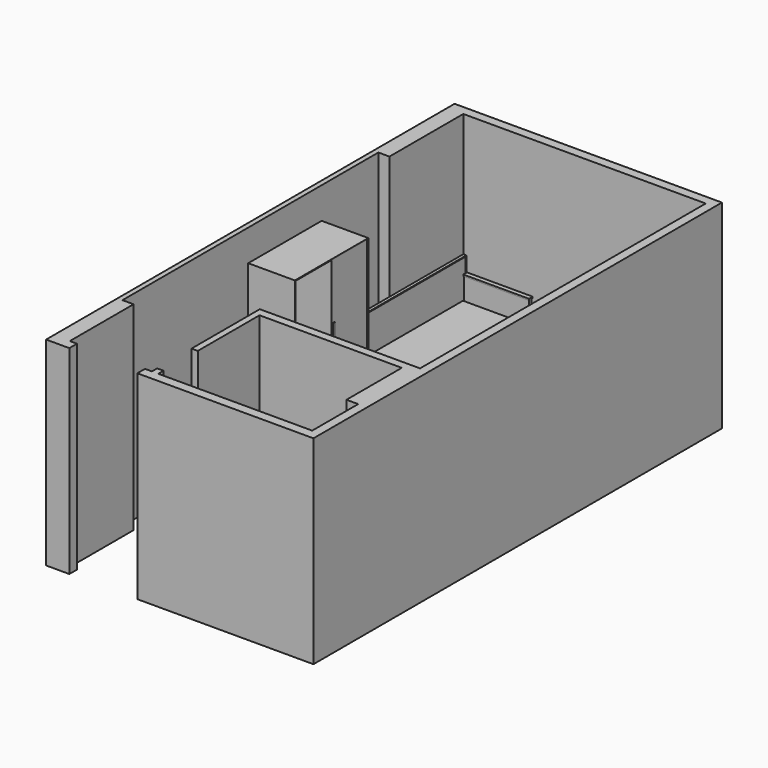
from build123d import *

# Parameters (mm, degrees)
F1_DEPTH  = 2600
F2_W      = 1200
F2_H      = 581
F3_DEPTH  = 900
F4_W      = 589
F4_H      = 600
F5_DEPTH  = 1200
F6_W      = 1680
F6_H      = 2110
F7_DEPTH  = 800
F8_W      = 610
F8_H      = 1200
F9_DEPTH  = 2200
F10_W     = 500
F10_H     = 1200
F11_DEPTH = 800
F12_W     = 510
F12_H     = 430
F13_DEPTH = 200
F14_W     = 150
F14_H     = 380
F15_DEPTH = 740
F17_DEPTH = 1800
F18_W     = 1180
F18_H     = 30
F19_DEPTH = 20
F20_W     = 585
F20_H     = 250
F21_DEPTH = 10
F22_W     = 585
F22_H     = 250
F23_DEPTH = 10
F24_W     = 100
F24_H     = 9
F25_DEPTH = 10
F26_W     = 585
F26_H     = 1640
F27_DEPTH = 10
F28_W     = 585
F28_H     = 1640
F29_DEPTH = 590
F30_W     = 25
F30_H     = 160
F31_DEPTH = 10
F32_R     = 7.5
F33_DEPTH = 585
F34_W     = 585
F34_H     = 10
F35_DEPTH = 585
F36_W     = 850
F36_H     = 2030
F37_DEPTH = 420
F39_DEPTH = 420
F40_W     = 300
F40_H     = 75
F41_DEPTH = 30
F43_DEPTH = 120
F42_W     = 800
F42_H     = 2000
F46_DEPTH = 200
F44_W     = 550
F44_H     = 250
F47_DEPTH = 20
F48_R     = 15
F49_DEPTH = 10
F50_W     = 860
F50_H     = 60
F51_DEPTH = 20
F53_DEPTH = 5


with BuildPart() as f1:
    # F0 (on Top) → F1 (new body)
    with BuildSketch(Plane.XY):
        Polygon((-2302, 0), (0, 0), (0, 1780), (-269, 1780), (-269, 876), (-116, 876), (-116, 125), (-2129, 125), (-2129, 211), (-2211, 211), (-2211, 125), (-2302, 125), align=None)
        Polygon((-116, 1887), (0, 1887), (0, 6675), (-3495, 6675), (-3495, 0), (-3191, 0), (-3191, 125), (-3285, 125), (-3285, 1167), (-3430, 1167), (-3430, 5348), (-3285, 5348), (-3285, 6555), (-116, 6555), align=None)
        Polygon((-269, 1780), (0, 1780), (0, 1887), (-116, 1887), (-2211, 1887), (-2211, 771.4661359787), (-2129, 771.4661359787), (-2129, 1780), align=None)
    extrude(amount=F1_DEPTH)


with BuildPart() as f3:
    # F2 (on face) → F3 (new body)
    with BuildSketch(Plane(origin=(0, 0, 0), x_dir=(1, 0, 0), z_dir=(0, 0, -1))):
        with Locations((-1611, -2177.5)):
            Rectangle(F2_W, F2_H)
        Polygon((-116, -2770), (-116, -1887), (-1011, -1887), (-1011, -2468), (-705, -2770), align=None)
    extrude(amount=-F3_DEPTH)


with BuildPart() as f5:
    # F4 (on face) → F5 (new body)
    with BuildSketch(Plane(origin=(0, 0, 0), x_dir=(1, 0, 0), z_dir=(0, 0, -1))):
        with Locations((-410.5, -3070)):
            Rectangle(F4_W, F4_H)
    extrude(amount=-F5_DEPTH)


with BuildPart() as f7:
    # F6 (on face) → F7 (new body)
    with BuildSketch(Plane(origin=(0, 0, 0), x_dir=(1, 0, 0), z_dir=(0, 0, -1))):
        with Locations((-2428.1640052795, -5478.7003082561)):
            Rectangle(F6_W, F6_H)
    extrude(amount=-F7_DEPTH)

    # F36 (on face) → F37 (cut)
    with BuildSketch(Plane.XY.offset(800)):
        with Locations((-2803.1640052795, 5478.7003082561)):
            Rectangle(F36_W, F36_H)
    extrude(amount=-F37_DEPTH, mode=Mode.SUBTRACT)

    # F38 (on face) → F39 (cut)
    with BuildSketch(Plane.XY.offset(800)):
        Polygon((-2378.1640052795, 4423.7003082561), (-1588.1640052795, 4423.7003082561), (-1588.1640052795, 6533.7003082561), (-2378.1640052795, 6533.7003082561), (-2378.1640052795, 6493.7003082561), (-2378.1640052795, 4463.7003082561), align=None)
    extrude(amount=-F39_DEPTH, mode=Mode.SUBTRACT)

    # F40 (on face) → F41 (join)
    with BuildSketch(Plane.YZ.offset(-1588.1640052795)):
        with Locations((4573.7003082561, 417.5)):
            Rectangle(F40_W, F40_H)
        with BuildLine():
            Line((4723.7003082561, 455), (4723.7003082561, 380))
            Line((4723.7003082561, 380), (4897.9043960571, 380))
            add(Edge.make_bspline(
                [(4723.7003082561, 455), (4733.011616892, 454.9604162061), (4758.9064379652, 454.85033337), (4839.3243346703, 385.3156971662), (4880.2814408738, 381.5991497911), (4897.9043960571, 380)],
                knots=[0, 0, 0, 0, 0.2423595319, 0.6740037261, 1, 1, 1, 1], degree=3))
        make_face()
        with BuildLine():
            add(Edge.make_bspline(
                [(6233.7003082561, 455), (6224.3889996202, 454.9604162061), (6198.494178547, 454.85033337), (6118.0762818418, 385.3156971662), (6077.1191756384, 381.5991497911), (6059.496220455, 380)],
                knots=[0, 0, 0, 0, 0.2423595319, 0.6740037261, 1, 1, 1, 1], degree=3))
            Line((6059.496220455, 380), (6233.7003082561, 380))
            Line((6233.7003082561, 380), (6233.7003082561, 455))
        make_face()
        with Locations((6383.7003082561, 417.5)):
            Rectangle(F40_W, F40_H)
    extrude(amount=-F41_DEPTH)

    # F45 (on face) → F46 (join)
    with BuildSketch(Plane.XY.offset(800)):
        Polygon((-3228.1640052795, 6533.7003082561), (-3268.1640052795, 6533.7003082561), (-3268.1640052795, 4423.7003082561), (-3228.1640052795, 4423.7003082561), (-3228.1640052795, 4463.7003082561), (-3228.1640052795, 6493.7003082561), align=None)
    extrude(amount=F46_DEPTH)

    # F50 (on face) → F51 (join)
    with BuildSketch(Plane.XY.offset(800)):
        Polygon((-3228.1640052795, 4473.7003082561), (-3228.1640052795, 4463.7003082561), (-2378.1640052795, 4463.7003082561), (-2378.1640052795, 4423.7003082561), (-3228.1640052795, 4423.7003082561), (-3228.1640052795, 4413.7003082561), (-2368.1640052795, 4413.7003082561), (-2368.1640052795, 4473.7003082561), align=None)
        with Locations((-2798.1640052795, 6513.7003082561)):
            Rectangle(F50_W, F50_H)
    extrude(amount=-F51_DEPTH)

    # F52 (on face) → F53 (cut)
    with BuildSketch(Plane.YZ.offset(-3228.1640052795)):
        Polygon((6528.7003082561, 995), (4433.7003082561, 995), (4433.7003082561, 800), (4438.7003082561, 800), (4438.7003082561, 990), (6523.7003082561, 990), (6523.7003082561, 800), (6528.7003082561, 800), align=None)
    extrude(amount=-F53_DEPTH, mode=Mode.SUBTRACT)


with BuildPart() as f9:
    # F8 (on face) → F9 (new body)
    with BuildSketch(Plane(origin=(0, 0, 0), x_dir=(1, 0, 0), z_dir=(0, 0, -1))):
        with Locations((-3113.1640052795, -3806.8403268422)):
            Rectangle(F8_W, F8_H)
    extrude(amount=-F9_DEPTH)

    # F18 (on face) → F19 (cut)
    with BuildSketch(Plane.YZ.offset(-2808.1640052795)):
        with Locations((3806.8403268422, 15)):
            Rectangle(F18_W, F18_H)
    extrude(amount=-F19_DEPTH, mode=Mode.SUBTRACT)

    # F20 (on face) → F21 (cut)
    with BuildSketch(Plane.YZ.offset(-2808.1640052795)):
        with Locations((3509.3403268422, 155)):
            Rectangle(F20_W, F20_H)
        with Locations((4104.3403268422, 155)):
            Rectangle(F20_W, F20_H)
    extrude(amount=-F21_DEPTH, mode=Mode.SUBTRACT)

    # F22 (on face) → F23 (cut)
    with BuildSketch(Plane.YZ.offset(-2808.1640052795)):
        with Locations((3509.3403268422, 415)):
            Rectangle(F22_W, F22_H)
        with Locations((4104.3403268422, 415)):
            Rectangle(F22_W, F22_H)
    extrude(amount=-F23_DEPTH, mode=Mode.SUBTRACT)

    # F26 (on face) → F27 (cut)
    with BuildSketch(Plane.YZ.offset(-2808.1640052795)):
        with Locations((3509.3403268422, 1370)):
            Rectangle(F26_W, F26_H)
        with Locations((4104.3403268422, 1370)):
            Rectangle(F26_W, F26_H)
    extrude(amount=-F27_DEPTH, mode=Mode.SUBTRACT)

    # F28 (on face) → F29 (cut)
    with BuildSketch(Plane.YZ.offset(-2818.1640052795)):
        with Locations((3509.3403268422, 1370)):
            Rectangle(F28_W, F28_H)
    extrude(amount=-F29_DEPTH, mode=Mode.SUBTRACT)


with BuildPart() as f11:
    # F10 (on face) → F11 (new body)
    with BuildSketch(Plane(origin=(0, 0, 0), x_dir=(1, 0, 0), z_dir=(0, 0, -1))):
        with Locations((-1961, -3068)):
            Rectangle(F10_W, F10_H)
    extrude(amount=-F11_DEPTH)


with BuildPart() as f13:
    # F12 (on face) → F13 (new body)
    with BuildSketch(Plane(origin=(0, 0, 0), x_dir=(1, 0, 0), z_dir=(0, 0, -1))):
        with Locations((-1806, -1553.1709725806)):
            Rectangle(F12_W, F12_H)
    extrude(amount=-F13_DEPTH)


with BuildPart() as f15:
    # F14 (on face) → F15 (new body)
    with BuildSketch(Plane(origin=(0, 0, 0), x_dir=(1, 0, 0), z_dir=(0, 0, -1))):
        with Locations((-354, -1478.1709725806)):
            Rectangle(F14_W, F14_H)
        with BuildLine():
            Line((-529, -1668.1709725806), (-429, -1668.1709725806))
            Line((-429, -1668.1709725806), (-429, -1288.1709725806))
            Line((-429, -1288.1709725806), (-529, -1288.1709725806))
            add(Edge.make_bspline(
                [(-529, -1668.1709725806), (-664.7312338243, -1660.2238014952), (-892.3108443325, -1646.8988353154), (-1054.8120500139, -1479.4081747253), (-908.4384310376, -1317.8649447192), (-644.3841618956, -1295.0610974697), (-561.6754632316, -1290.122176444), (-529, -1288.1709725806)],
                knots=[0, 0, 0, 0, 0.2672098909, 0.4480289553, 0.6272295004, 0.8527307411, 1, 1, 1, 1], degree=3))
        make_face()
    extrude(amount=-F15_DEPTH)


with BuildPart() as f17:
    # F16 (on face) → F17 (new body)
    with BuildSketch(Plane(origin=(0, 0, 0), x_dir=(1, 0, 0), z_dir=(0, 0, -1))):
        Polygon((-269, -876), (-116, -876), (-116, -125), (-1216, -125), (-1216, -684.6680045128), (-1016, -876), align=None)
        Polygon((-1016, -826), (-1166, -684.6680045128), (-1166, -175), (-161.0000014305, -175), (-161.0000014305, -826), align=None, mode=Mode.SUBTRACT)
    extrude(amount=-F17_DEPTH)


with BuildPart() as f25:
    # F24 (on face) → F25 (new body)
    with BuildSketch(Plane.YZ.offset(-2818.1640052795)):
        with Locations((4104.3403268422, 511.0018552444)):
            Rectangle(F24_W, F24_H)
    extrude(amount=F25_DEPTH)


with BuildPart() as f25b:
    # F24 (on face) → F25, piece 2 (new body)
    with BuildSketch(Plane.YZ.offset(-2818.1640052795)):
        with Locations((4104.3403268422, 245.5)):
            Rectangle(F24_W, F24_H)
    extrude(amount=F25_DEPTH)


with BuildPart() as f25c:
    # F24 (on face) → F25, piece 3 (new body)
    with BuildSketch(Plane.YZ.offset(-2818.1640052795)):
        with Locations((3509.3403268422, 245.5)):
            Rectangle(F24_W, F24_H)
    extrude(amount=F25_DEPTH)


with BuildPart() as f25d:
    # F24 (on face) → F25, piece 4 (new body)
    with BuildSketch(Plane.YZ.offset(-2818.1640052795)):
        with Locations((3509.3403268422, 505.5)):
            Rectangle(F24_W, F24_H)
    extrude(amount=F25_DEPTH)


with BuildPart() as f31:
    # F30 (on face) → F31 (new body)
    with BuildSketch(Plane.YZ.offset(-2818.1640052795)):
        with Locations((3854.3403268422, 1370)):
            Rectangle(F30_W, F30_H)
    extrude(amount=F31_DEPTH)


with BuildPart() as f33:
    # F32 (on face) → F33 (new body)
    with BuildSketch(Plane(origin=(0, 3216.8403268422, 0), x_dir=(-1, 0, 0), z_dir=(0, 1, 0))):
        with Locations((3110.5614328384, 2140)):
            Circle(F32_R)
    extrude(amount=F33_DEPTH)


with BuildPart() as f35:
    # F34 (on face) → F35 (new body)
    with BuildSketch(Plane(origin=(0, 3216.8403268422, 0), x_dir=(-1, 0, 0), z_dir=(0, 1, 0))):
        with Locations((3115.6640052795, 855)):
            Rectangle(F34_W, F34_H)
    extrude(amount=F35_DEPTH)


with BuildPart() as f43:
    # F42 (on face) → F43 (new body)
    with BuildSketch(Plane.XY.offset(380)):
        Polygon((-2418.1640052795, 4478.7003082561), (-1618.1640052795, 4478.7003082561), (-1618.1640052795, 4897.9043960571), (-1618.1640052795, 6059.496220455), (-1618.1640052795, 6478.7003082561), (-2418.1640052795, 6478.7003082561), align=None)
    extrude(amount=F43_DEPTH)


with BuildPart() as f43b:
    # F42 (on face) → F43, piece 2 (new body)
    with BuildSketch(Plane.XY.offset(380)):
        with Locations((-2828.1640052795, 5478.7003082561)):
            Rectangle(F42_W, F42_H)
    extrude(amount=F43_DEPTH)


with BuildPart() as f47:
    # F44 (on face) → F47 (new body)
    with BuildSketch(Plane.YZ.offset(-1588.1640052795)):
        with Locations((6143.7003082561, 190)):
            Rectangle(F44_W, F44_H)
    extrude(amount=F47_DEPTH)

    # F48 (on face) → F49, piece 3 (join)
    with BuildSketch(Plane.YZ.offset(-1568.1640052795)):
        with Locations((6143.7003082561, 190)):
            Circle(F48_R)
    extrude(amount=F49_DEPTH)


with BuildPart() as f47b:
    # F44 (on face) → F47, piece 2 (new body)
    with BuildSketch(Plane.YZ.offset(-1588.1640052795)):
        with Locations((5478.7003082561, 190)):
            Rectangle(F44_W, F44_H)
    extrude(amount=F47_DEPTH)

    # F48 (on face) → F49, piece 2 (join)
    with BuildSketch(Plane.YZ.offset(-1568.1640052795)):
        with Locations((5478.7003082561, 190)):
            Circle(F48_R)
    extrude(amount=F49_DEPTH)


with BuildPart() as f47c:
    # F44 (on face) → F47, piece 3 (new body)
    with BuildSketch(Plane.YZ.offset(-1588.1640052795)):
        with Locations((4813.7003082561, 190)):
            Rectangle(F44_W, F44_H)
    extrude(amount=F47_DEPTH)

    # F48 (on face) → F49 (join)
    with BuildSketch(Plane.YZ.offset(-1568.1640052795)):
        with Locations((4813.7003082561, 190)):
            Circle(F48_R)
    extrude(amount=F49_DEPTH)


solid = Compound([f1.part, f3.part, f5.part, f7.part, f9.part, f11.part, f13.part, f15.part, f17.part, f25.part, f25b.part, f25c.part, f25d.part, f31.part, f33.part, f35.part, f43.part, f43b.part, f47.part, f47b.part, f47c.part])
